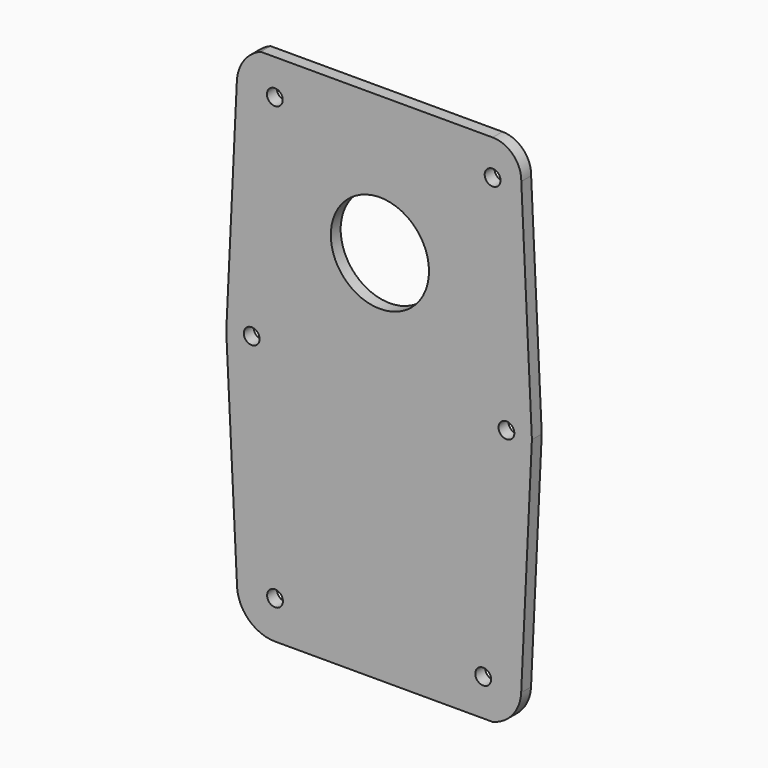
from build123d import *

# Parameters (mm, degrees)
F0_R     = 7.14375
F1_DEPTH = 11.1125
F2_R     = 44.311426
F3_DEPTH = 11.1135


with BuildPart() as f1:
    # F0 (on Front) → F1 (new body)
    with BuildSketch(Plane.XZ):
        with BuildLine():
            ThreePointArc((127.595391, 192.662955), (120.273816, 211.433551), (101.71341, 219.272687))
            Line((101.71341, 219.272687), (-107.565263, 219.272687))
            ThreePointArc((-107.565263, 219.272687), (-122.772947, 207.316717), (-129.097662, 189.035119))
            Line((-129.097662, 189.035119), (-138.666639, -12.95515))
            Line((-138.666639, -12.95515), (-128.862861, -213.436015))
            ThreePointArc((-128.862861, -213.436015), (-117.946426, -235.942779), (-94.652606, -245.059846))
            Line((-94.652606, -245.059846), (101.71341, -245.059846))
            ThreePointArc((101.71341, -245.059846), (119.814643, -233.495775), (127.495033, -213.436015))
            Line((127.495033, -213.436015), (137.164368, -9.327313))
            Line((137.164368, -9.327313), (127.595391, 192.662955))
        make_face()
        with Locations((-94.652606, -210.743823)):
            Circle(F0_R, mode=Mode.SUBTRACT)
        with Locations((93.217452, -211.812167)):
            Circle(F0_R, mode=Mode.SUBTRACT)
        with Locations((-115.706585, -9.327313)):
            Circle(F0_R, mode=Mode.SUBTRACT)
        with Locations((-94.820081, 187.411271)):
            Circle(F0_R, mode=Mode.SUBTRACT)
        with Locations((114.174746, -9.327313)):
            Circle(F0_R, mode=Mode.SUBTRACT)
        with Locations((101.71341, 187.411271)):
            Circle(F0_R, mode=Mode.SUBTRACT)
    extrude(amount=F1_DEPTH)

    # F2 (on face) → F3 (cut, through all)
    with BuildSketch(Plane.XZ.offset(11.1125)):
        with Locations((0, 94.304687)):
            Circle(F2_R)
    extrude(amount=-F3_DEPTH, mode=Mode.SUBTRACT)


solid = f1.part
